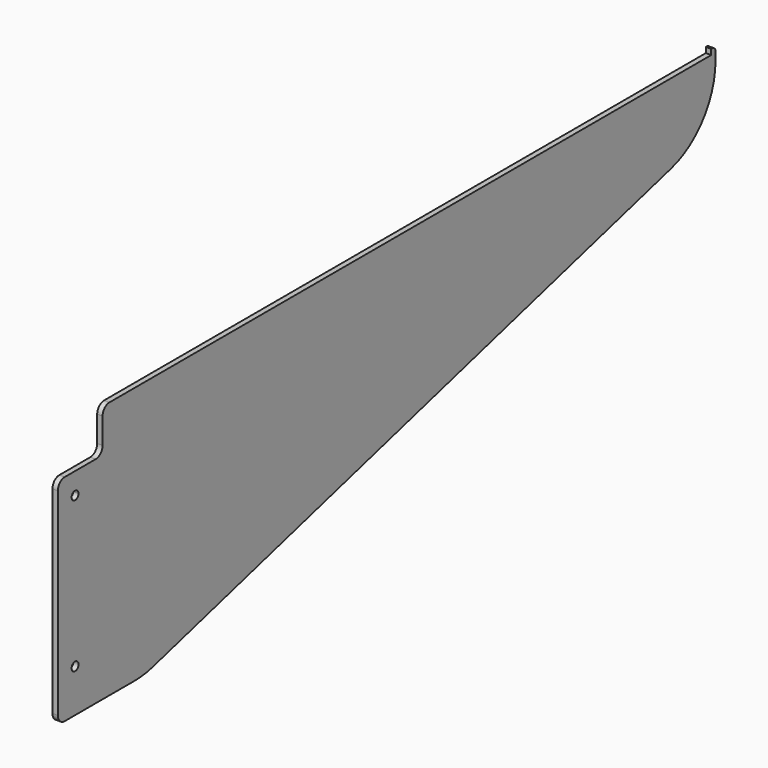
from build123d import *

# Parameters (mm, degrees)
F0_R     = 2.54
F1_DEPTH = 3.175
F2_R     = 5.08
F3_R     = 2.54
F4_R     = 44.45
F5_R     = 50.8


with BuildPart() as f1:
    # F0 (on Right) → F1 (new body)
    with BuildSketch(Plane.YZ):
        Polygon((482.6, 0), (33.02, 0), (33.02, -25.4), (12.7, -25.4), (0, -25.4), (0, -152.4), (63.5, -152.4), (485.775, -38.1), (485.775, 3.175), (482.6, 3.175), align=None)
        with Locations((12.7, -127)):
            Circle(F0_R, mode=Mode.SUBTRACT)
        with BuildLine():
            ThreePointArc((15.24, -38.1), (10.903949, -39.896051), (12.7, -35.56))
            ThreePointArc((12.7, -35.56), (14.496051, -36.303949), (15.24, -38.1))
        make_face(mode=Mode.SUBTRACT)
    extrude(amount=F1_DEPTH)

    # F2
    f2_edges = [f1.edges().sort_by_distance(p)[0] for p in [
        (1.5875, 0, -152.4),
        (1.5875, 0, -25.4),
        (1.5875, 33.02, 0),
        (1.5875, 33.02, -25.4),
    ]]
    fillet(f2_edges, radius=F2_R)

    # F3
    f3_edges = [f1.edges().sort_by_distance(p)[0] for p in [
        (1.5875, 485.775, 3.175),
    ]]
    fillet(f3_edges, radius=F3_R)

    # F4
    f4_edges = [f1.edges().sort_by_distance(p)[0] for p in [
        (1.5875, 485.775, -38.1),
    ]]
    fillet(f4_edges, radius=F4_R)

    # F5
    f5_edges = [f1.edges().sort_by_distance(p)[0] for p in [
        (1.5875, 63.5, -152.4),
    ]]
    fillet(f5_edges, radius=F5_R)


solid = f1.part
